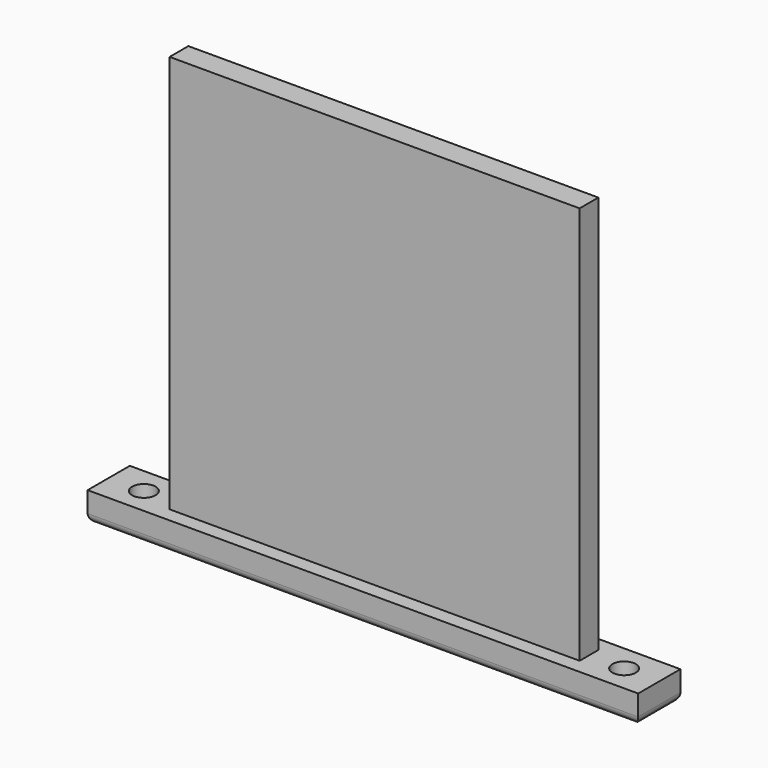
from build123d import *

# Parameters (mm, degrees)
F0_W     = 35
F0_H     = 2
F1_DEPTH = 34
F2_W     = 47
F2_H     = 4.5
F2_R     = 1
F3_DEPTH = 2.5
F4_R     = 0.74


with BuildPart() as f1:
    # F0 (on Top) → F1 (new body)
    with BuildSketch(Plane.XY):
        with Locations((17.5, 1)):
            Rectangle(F0_W, F0_H)
    extrude(amount=F1_DEPTH)

    # F2 (on Top) → F3 (join)
    with BuildSketch(Plane.XY):
        with Locations((17.5, 1)):
            Rectangle(F2_W, F2_H)
        with Locations((-3, 1)):
            Circle(F2_R, mode=Mode.SUBTRACT)
        with Locations((38, 1)):
            Circle(F2_R, mode=Mode.SUBTRACT)
    extrude(amount=-F3_DEPTH)

    # F4
    f4_edges = [f1.edges().sort_by_distance(p)[0] for p in [
        (-6, 1, -2.5),
        (17.5, -1.25, -2.5),
        (41, 1, -2.5),
        (17.5, 3.25, -2.5),
    ]]
    fillet(f4_edges, radius=F4_R)


solid = f1.part
